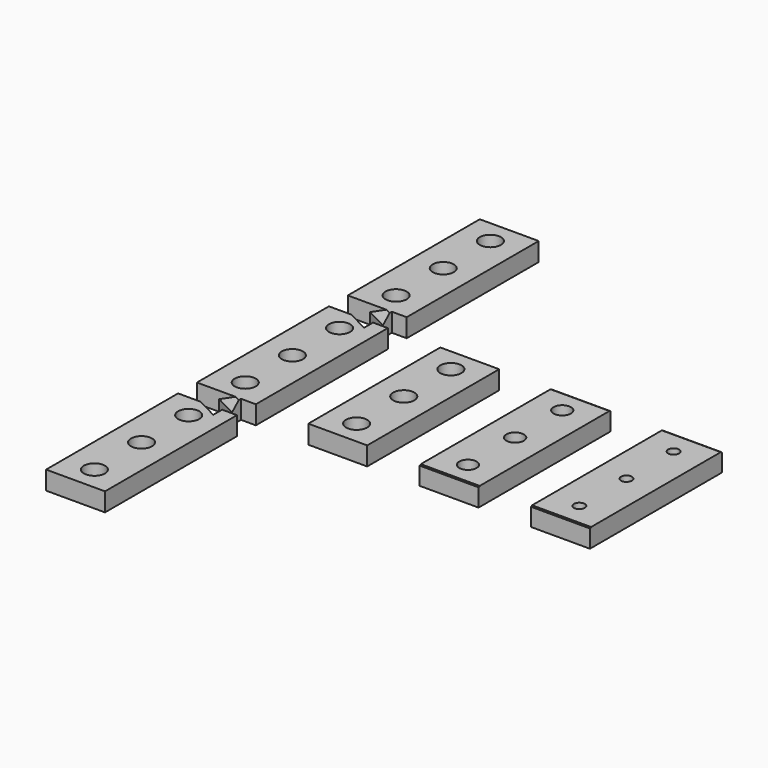
from build123d import *

# Parameters (mm, degrees)
SKETCH_R        = 2.85
PAD_DEPTH       = 5
CHAMFER_SIZE    = 1.7
CHAMFER005_SIZE = 2
SKETCH004_R     = 2.85
PAD001_DEPTH    = 5
CHAMFER002_SIZE = 1.7
SKETCH006_R     = 2.85
PAD002_DEPTH    = 5
CHAMFER001_SIZE = 1.7
CHAMFER004_SIZE = 2
SKETCH008_W     = 15.875
SKETCH008_H     = 44.45
SKETCH008_R     = 2.35
PAD003_DEPTH    = 5
SKETCH007_W     = 15.875
SKETCH007_H     = 0.381
POCKET003_DEPTH = 0.2
SKETCH010_W     = 15.875
SKETCH010_H     = 44.45
SKETCH010_R     = 1.47
PAD004_DEPTH    = 5
SKETCH009_W     = 15.875
SKETCH009_H     = 0.381
POCKET004_DEPTH = 0.2
SKETCH012_W     = 15.875
SKETCH012_H     = 44.45
SKETCH012_R     = 2.85
PAD005_DEPTH    = 5
CHAMFER003_SIZE = 1.7


with BuildPart() as f_1u_6m_connector:
    # Sketch → Pad (new body)
    with BuildSketch(Plane.XY):
        Polygon((15.875, 0), (15.875, -44.45), (11.875, -44.45), (11.875, -47.45), (6, -44.45), (0, -44.45), (0, 0), (6, 0), (11.875, -3), (11.875, 0), align=None)
        with Locations((7.9375, -22.225)):
            Circle(SKETCH_R, mode=Mode.SUBTRACT)
        with Locations((7.9375, -38.1)):
            Circle(SKETCH_R, mode=Mode.SUBTRACT)
        with Locations((7.9375, -6.35)):
            Circle(SKETCH_R, mode=Mode.SUBTRACT)
    extrude(amount=PAD_DEPTH)

    # Chamfer
    chamfer_edges = [f_1u_6m_connector.edges().sort_by_distance(p)[0] for p in [
        (5.0875, -22.225, 0),
        (5.0875, -6.35, 0),
        (5.0875, -38.1, 0),
    ]]
    chamfer(chamfer_edges, length=CHAMFER_SIZE)

    # Chamfer005
    chamfer005_edges = [f_1u_6m_connector.edges().sort_by_distance(p)[0] for p in [
        (8.9375, -45.95, 5),
    ]]
    chamfer(chamfer005_edges, length=CHAMFER005_SIZE)


with BuildPart() as f_1u_6m_end_point:
    # Sketch004 → Pad001 (new body)
    with BuildSketch(Plane.XY):
        Polygon((15.875, 0), (15.875, -44.45), (0, -44.45), (0, 0), (6, 0), (11.875, -3), (11.875, 0), align=None)
        with Locations((7.9375, -22.225)):
            Circle(SKETCH004_R, mode=Mode.SUBTRACT)
        with Locations((7.9375, -38.1)):
            Circle(SKETCH004_R, mode=Mode.SUBTRACT)
        with Locations((7.9375, -6.35)):
            Circle(SKETCH004_R, mode=Mode.SUBTRACT)
    extrude(amount=PAD001_DEPTH)

    # Chamfer002
    chamfer002_edges = [f_1u_6m_end_point.edges().sort_by_distance(p)[0] for p in [
        (5.0875, -38.1, 0),
        (5.0875, -6.35, 0),
        (5.0875, -22.225, 0),
    ]]
    chamfer(chamfer002_edges, length=CHAMFER002_SIZE)


with BuildPart() as f_1u_6m_end_point_1:
    # Body001 placement: moved
    add(f_1u_6m_end_point.part.moved(Location((0, -50.8, 0))))


with BuildPart() as f_1u_6m_end_flat:
    # Sketch006 → Pad002 (new body)
    with BuildSketch(Plane.XY):
        Polygon((15.875, 0), (15.875, -44.45), (11.875, -44.45), (11.875, -47.45), (6, -44.45), (0, -44.45), (0, 0), align=None)
        with Locations((7.9375, -22.225)):
            Circle(SKETCH006_R, mode=Mode.SUBTRACT)
        with Locations((7.9375, -38.1)):
            Circle(SKETCH006_R, mode=Mode.SUBTRACT)
        with Locations((7.9375, -6.35)):
            Circle(SKETCH006_R, mode=Mode.SUBTRACT)
    extrude(amount=PAD002_DEPTH)

    # Chamfer001
    chamfer001_edges = [f_1u_6m_end_flat.edges().sort_by_distance(p)[0] for p in [
        (5.0875, -38.1, 0),
        (5.0875, -6.35, 0),
        (5.0875, -22.225, 0),
    ]]
    chamfer(chamfer001_edges, length=CHAMFER001_SIZE)

    # Chamfer004
    chamfer004_edges = [f_1u_6m_end_flat.edges().sort_by_distance(p)[0] for p in [
        (8.9375, -45.95, 5),
    ]]
    chamfer(chamfer004_edges, length=CHAMFER004_SIZE)


with BuildPart() as f_1u_6m_end_flat_1:
    # Body002 placement: moved
    add(f_1u_6m_end_flat.part.moved(Location((0, 50.8, 0))))


with BuildPart() as f_1u_5m:
    # Sketch008 → Pad003 (new body)
    with BuildSketch(Plane.XY):
        with Locations((7.9375, -22.225)):
            Rectangle(SKETCH008_W, SKETCH008_H)
        with Locations((7.9375, -22.225)):
            Circle(SKETCH008_R, mode=Mode.SUBTRACT)
        with Locations((7.9375, -38.1)):
            Circle(SKETCH008_R, mode=Mode.SUBTRACT)
        with Locations((7.9375, -6.35)):
            Circle(SKETCH008_R, mode=Mode.SUBTRACT)
    extrude(amount=PAD003_DEPTH)

    # Sketch007 (on Face15 of Pad003) → Pocket003 (cut)
    with BuildSketch(Plane.XY.offset(5)):
        with Locations((7.9375, -44.2595)):
            Rectangle(SKETCH007_W, SKETCH007_H)
        with Locations((7.9375, -0.1905)):
            Rectangle(SKETCH007_W, SKETCH007_H)
    extrude(amount=-POCKET003_DEPTH, mode=Mode.SUBTRACT)


with BuildPart() as f_1u_5m_1:
    # Body003 placement: moved
    add(f_1u_5m.part.moved(Location((60, 0, 0))))


with BuildPart() as f_1u_3m:
    # Sketch010 → Pad004 (new body)
    with BuildSketch(Plane.XY):
        with Locations((7.9375, -22.225)):
            Rectangle(SKETCH010_W, SKETCH010_H)
        with Locations((7.9375, -22.225)):
            Circle(SKETCH010_R, mode=Mode.SUBTRACT)
        with Locations((7.9375, -38.1)):
            Circle(SKETCH010_R, mode=Mode.SUBTRACT)
        with Locations((7.9375, -6.35)):
            Circle(SKETCH010_R, mode=Mode.SUBTRACT)
    extrude(amount=PAD004_DEPTH)

    # Sketch009 (on Face15 of Pad004) → Pocket004 (cut)
    with BuildSketch(Plane.XY.offset(5)):
        with Locations((7.9375, -44.2595)):
            Rectangle(SKETCH009_W, SKETCH009_H)
        with Locations((7.9375, -0.1905)):
            Rectangle(SKETCH009_W, SKETCH009_H)
    extrude(amount=-POCKET004_DEPTH, mode=Mode.SUBTRACT)


with BuildPart() as f_1u_3m_1:
    # Body004 placement: moved
    add(f_1u_3m.part.moved(Location((90, 0, 0))))


with BuildPart() as f_1u_6m:
    # Sketch012 → Pad005 (new body)
    with BuildSketch(Plane.XY):
        with Locations((7.9375, -22.225)):
            Rectangle(SKETCH012_W, SKETCH012_H)
        with Locations((7.9375, -22.225)):
            Circle(SKETCH012_R, mode=Mode.SUBTRACT)
        with Locations((7.9375, -38.1)):
            Circle(SKETCH012_R, mode=Mode.SUBTRACT)
        with Locations((7.9375, -6.35)):
            Circle(SKETCH012_R, mode=Mode.SUBTRACT)
    extrude(amount=PAD005_DEPTH)

    # Chamfer003
    chamfer003_edges = [f_1u_6m.edges().sort_by_distance(p)[0] for p in [
        (5.0875, -38.1, 0),
        (5.0875, -22.225, 0),
        (5.0875, -6.35, 0),
    ]]
    chamfer(chamfer003_edges, length=CHAMFER003_SIZE)


with BuildPart() as f_1u_6m_1:
    # Body005 placement: moved
    add(f_1u_6m.part.moved(Location((30, 0, 0))))


solid = Compound([f_1u_6m_connector.part, f_1u_6m_end_point_1.part, f_1u_6m_end_flat_1.part, f_1u_5m_1.part, f_1u_3m_1.part, f_1u_6m_1.part])
